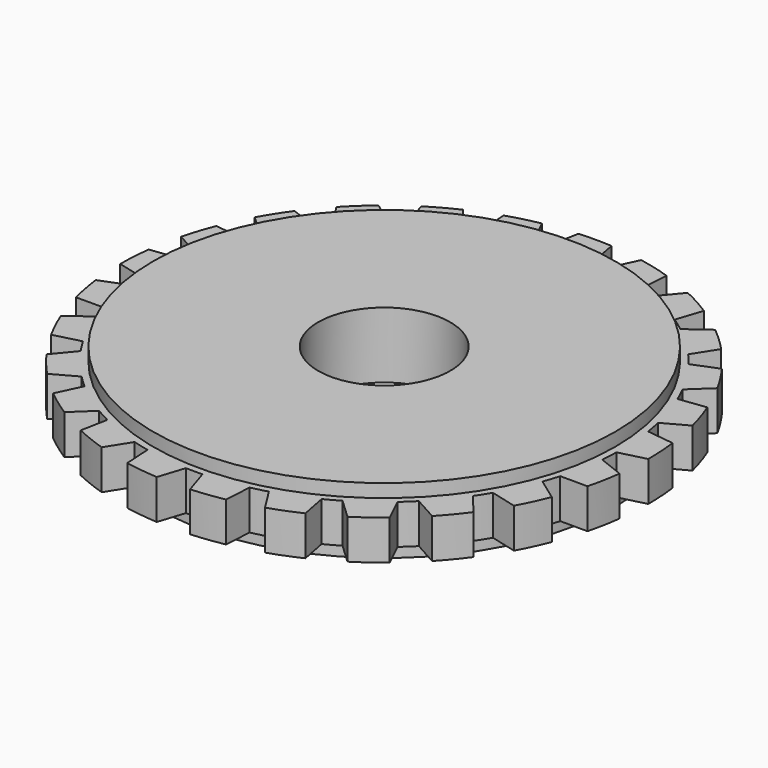
from build123d import *

# Parameters (mm, degrees)
F0_W     = 3
F0_H     = 1
F3_DEPTH = 25
F5_R     = 3.5
F6_DEPTH = 0.2
F4_R     = 3.5
F7_DEPTH = 0.2


with BuildPart() as f1:
    # F0 (on Front) → F1 (revolve)
    with BuildSketch(Plane.XZ):
        with Locations((-2.5, 0.5)):
            Rectangle(F0_W, F0_H)
    revolve(axis=Axis((0, 0, 0.5), (0, 0, -1)))

    # F2 (on face) → F3 (cut)
    with BuildSketch(Plane.XY.offset(1)):
        with BuildLine():
            Line((-2.013438288, 2.9849859083), (-2.1423239832, 3.3779354569))
            ThreePointArc((-2.1423239832, 3.3779354569), (-2.3511410092, 3.2360679775), (-2.5505930097, 3.0813106463))
            Line((-2.5505930097, 3.0813106463), (-2.21670813, 2.8373014783))
            ThreePointArc((-2.21670813, 2.8373014783), (-2.1163618197, 2.9129173109), (-2.013438288, 2.9849859083))
        make_face()
        with BuildLine():
            Line((-1.207846613, 3.3919288277), (-1.2349605481, 3.8045857126))
            ThreePointArc((-1.2349605481, 3.8045857126), (-1.4724982107, 3.7191059436), (-1.7041706431, 3.618812294))
            Line((-1.7041706431, 3.618812294), (-1.4414579833, 3.2994353297))
            ThreePointArc((-1.4414579833, 3.2994353297), (-1.3254593441, 3.3477204393), (-1.207846613, 3.3919288277))
        make_face()
        with BuildLine():
            Line((-0.3263614931, 3.5857443841), (-0.25, 3.9921798557))
            ThreePointArc((-0.25, 3.9921798557), (-0.5013329343, 3.9684588053), (-0.7506689676, 3.9289306562))
            Line((-0.7506689676, 3.9289306562), (-0.5756357303, 3.5542535248))
            ThreePointArc((-0.5756357303, 3.5542535248), (-0.4512733831, 3.5721739804), (-0.3263614931, 3.5857443841))
        make_face()
        with BuildLine():
            ThreePointArc((0.7506689676, 3.9289306562), (0.5013329343, 3.9684588053), (0.25, 3.9921798557))
            Line((0.25, 3.9921798557), (0.3263558327, 3.5857448993))
            ThreePointArc((0.3263558327, 3.5857448993), (0.4512677441, 3.5721746927), (0.5756301196, 3.5542544335))
            Line((0.5756301196, 3.5542544335), (0.7506689676, 3.9289306562))
        make_face()
        with BuildLine():
            Line((1.4414527749, 3.2994376051), (1.7041706431, 3.618812294))
            ThreePointArc((1.7041706431, 3.618812294), (1.4724982107, 3.7191059436), (1.2349605481, 3.8045857126))
            Line((1.2349605481, 3.8045857126), (1.2078412585, 3.3919307343))
            ThreePointArc((1.2078412585, 3.3919307343), (1.3254540594, 3.3477225316), (1.4414527749, 3.2994376051))
        make_face()
        with BuildLine():
            Line((2.216703651, 2.8373049776), (2.5505930097, 3.0813106463))
            ThreePointArc((2.5505930097, 3.0813106463), (2.3511410092, 3.2360679775), (2.1423239832, 3.3779354569))
            Line((2.1423239832, 3.3779354569), (2.0134335759, 2.9849890867))
            ThreePointArc((2.0134335759, 2.9849890867), (2.1163572214, 2.9129206518), (2.216703651, 2.8373049776))
        make_face()
        with BuildLine():
            Line((2.8526708843, 2.1968940434), (3.236752237, 2.3501989184))
            ThreePointArc((3.236752237, 2.3501989184), (3.0820529711, 2.549695959), (2.9150773234, 2.7390370933))
            Line((2.9150773234, 2.7390370933), (2.6925144568, 2.3904895967))
            ThreePointArc((2.6925144568, 2.3904895967), (2.7742818758, 2.2950892544), (2.8526708843, 2.1968940434))
        make_face()
        with BuildLine():
            Line((3.3093943146, 1.4184441769), (3.7195344174, 1.4714155491))
            ThreePointArc((3.7195344174, 1.4714155491), (3.6193082099, 1.7031171663), (3.5046656345, 1.9280349557))
            Line((3.5046656345, 1.9280349557), (3.2024147521, 1.6457868538))
            ThreePointArc((3.2024147521, 1.6457868538), (3.2578881969, 1.5330489584), (3.3093943146, 1.4184441769))
        make_face()
        with BuildLine():
            Line((3.5581763289, 0.550868246), (3.9686045708, 0.5001777293))
            ThreePointArc((3.9686045708, 0.5001777293), (3.9291490029, 0.7495252583), (3.8740429145, 0.9958872909))
            Line((3.8740429145, 0.9958872909), (3.5110955508, 0.79767327))
            ThreePointArc((3.5110955508, 0.79767327), (3.5367894208, 0.6746815583), (3.5581763289, 0.550868246))
        make_face()
        with BuildLine():
            Line((3.5833850385, -0.3513207626), (3.9683127035, -0.5024880967))
            ThreePointArc((3.9683127035, -0.5024880967), (3.9920703159, -0.2517431092), (4, 0))
            ThreePointArc((4, 0), (3.9999999576, 0.0005821825), (3.9999998305, 0.0011643651))
            Line((3.9999998305, 0.0011643651), (3.5991613031, -0.1005610589))
            ThreePointArc((3.5991613031, -0.1005610589), (3.5934611581, -0.2260785655), (3.5833850385, -0.3513207626))
        make_face()
        with BuildLine():
            Line((3.3834364873, -1.2314349957), (3.7186771546, -1.4735807476))
            ThreePointArc((3.7186771546, -1.4735807476), (3.8042260652, -1.2360679775), (3.8746220462, -0.9936317221))
            Line((3.8746220462, -0.9936317221), (3.461078514, -0.9924767667))
            ThreePointArc((3.461078514, -0.9924767667), (3.4243425149, -1.1126333416), (3.3834364873, -1.2314349957))
        make_face()
        with BuildLine():
            Line((2.9708941782, -2.0341736391), (3.2353834438, -2.3520829007))
            ThreePointArc((3.2353834438, -2.3520829007), (3.377311702, -2.1433071799), (3.5057875088, -1.9259942739))
            Line((3.5057875088, -1.9259942739), (3.1055234329, -1.8220315091))
            ThreePointArc((3.1055234329, -1.8220315091), (3.0400598377, -1.9292772728), (2.9708941782, -2.0341736391))
        make_face()
        with BuildLine():
            Line((2.3716796617, -2.7090976716), (2.5487986923, -3.0827950348))
            ThreePointArc((2.5487986923, -3.0827950348), (2.7381884237, -2.9158745097), (2.9166714489, -2.7373395221))
            Line((2.9166714489, -2.7373395221), (2.5548368931, -2.5371013109))
            ThreePointArc((2.5548368931, -2.5371013109), (2.4647590203, -2.6246976176), (2.3716796617, -2.7090976716))
        make_face()
        with BuildLine():
            Line((1.6234437897, -3.2137991341), (1.7020635451, -3.6198038191))
            ThreePointArc((1.7020635451, -3.6198038191), (1.9270146964, -3.5052267202), (2.1442901951, -3.3766876609))
            Line((2.1442901951, -3.3766876609), (1.8436205554, -3.0927557065))
            ThreePointArc((1.8436205554, -3.0927557065), (1.734588329, -3.1551985581), (1.6234437897, -3.2137991341))
        make_face()
        with BuildLine():
            Line((0.7732009737, -3.5165657774), (0.7483814856, -3.9293670167))
            ThreePointArc((0.7483814856, -3.9293670167), (0.9947595487, -3.8743326445), (1.2371753021, -3.8038660954))
            Line((1.2371753021, -3.8038660954), (1.0165627578, -3.4540808867))
            ThreePointArc((1.0165627578, -3.4540808867), (0.8954270735, -3.4874467692), (0.7732009737, -3.5165657774))
        make_face()
        with BuildLine():
            Line((-0.1256249031, -3.5983736599), (-0.252324135, -3.9920336335))
            ThreePointArc((-0.252324135, -3.9920336335), (0, -4), (0.252324135, -3.9920336335))
            Line((0.252324135, -3.9920336335), (0.1256305835, -3.5983734616))
            ThreePointArc((0.1256305835, -3.5983734616), (2.8419e-06, -3.6005658739), (-0.1256249031, -3.5983736599))
        make_face()
        with BuildLine():
            Line((-1.0165573052, -3.4540824914), (-1.2371753021, -3.8038660954))
            ThreePointArc((-1.2371753021, -3.8038660954), (-0.9947595487, -3.8743326445), (-0.7483814856, -3.9293670167))
            Line((-0.7483814856, -3.9293670167), (-0.7731954225, -3.5165669979))
            ThreePointArc((-0.7731954225, -3.5165669979), (-0.8954215683, -3.4874481827), (-1.0165573052, -3.4540824914))
        make_face()
        with BuildLine():
            Line((-1.8436156732, -3.0927586168), (-2.1442901951, -3.3766876609))
            ThreePointArc((-2.1442901951, -3.3766876609), (-1.9270146964, -3.5052267202), (-1.7020635451, -3.6198038191))
            Line((-1.7020635451, -3.6198038191), (-1.6234387164, -3.2138016968))
            ThreePointArc((-1.6234387164, -3.2138016968), (-1.7345833482, -3.1552012963), (-1.8436156732, -3.0927586168))
        make_face()
        with BuildLine():
            Line((-3.1055205566, -1.8220364115), (-3.5057875088, -1.9259942739))
            ThreePointArc((-3.5057875088, -1.9259942739), (-3.377311702, -2.1433071799), (-3.2353834438, -2.3520829007))
            Line((-3.2353834438, -2.3520829007), (-2.9708909671, -2.0341783289))
            ThreePointArc((-2.9708909671, -2.0341783289), (-3.0400567922, -1.9292820718), (-3.1055205566, -1.8220364115))
        make_face()
        with BuildLine():
            Line((-2.5548328881, -2.5371053439), (-2.9166714489, -2.7373395221))
            ThreePointArc((-2.9166714489, -2.7373395221), (-2.7381884237, -2.9158745097), (-2.5487986923, -3.0827950348))
            Line((-2.5487986923, -3.0827950348), (-2.3716753852, -2.7091014155))
            ThreePointArc((-2.3716753852, -2.7091014155), (-2.464754877, -2.6247015085), (-2.5548328881, -2.5371053439))
        make_face()
        with BuildLine():
            Line((-3.4610769473, -0.9924822303), (-3.8746220462, -0.9936317221))
            ThreePointArc((-3.8746220462, -0.9936317221), (-3.8042260652, -1.2360679775), (-3.7186771546, -1.4735807476))
            Line((-3.7186771546, -1.4735807476), (-3.3834345434, -1.2314403368))
            ThreePointArc((-3.3834345434, -1.2314403368), (-3.4243407585, -1.1126387472), (-3.4610769473, -0.9924822303))
        make_face()
        with BuildLine():
            Line((-3.5991611444, -0.1005667405), (-3.9999998305, 0.0011643651))
            ThreePointArc((-3.9999998305, 0.0011643651), (-3.9921069137, -0.2511620781), (-3.9683127035, -0.5024880967))
            Line((-3.9683127035, -0.5024880967), (-3.5833844839, -0.3513264193))
            ThreePointArc((-3.5833844839, -0.3513264193), (-3.5934608012, -0.2260842381), (-3.5991611444, -0.1005667405))
        make_face()
        with BuildLine():
            Line((-3.51109681, 0.7976677275), (-3.8740429145, 0.9958872909))
            ThreePointArc((-3.8740429145, 0.9958872909), (-3.9291490029, 0.7495252583), (-3.9686045708, 0.5001777293))
            Line((-3.9686045708, 0.5001777293), (-3.5581771985, 0.5508626292))
            ThreePointArc((-3.5581771985, 0.5508626292), (-3.5367904859, 0.6746759751), (-3.51109681, 0.7976677275))
        make_face()
        with BuildLine():
            Line((-3.2024173501, 1.6457817985), (-3.5046656345, 1.9280349557))
            ThreePointArc((-3.5046656345, 1.9280349557), (-3.6193082099, 1.7031171663), (-3.7195344174, 1.4714155491))
            Line((-3.7195344174, 1.4714155491), (-3.3093965537, 1.4184389527))
            ThreePointArc((-3.3093965537, 1.4184389527), (-3.2578906169, 1.5330438156), (-3.2024173501, 1.6457817985))
        make_face()
        with BuildLine():
            Line((-2.6925182304, 2.3904853464), (-2.9150773234, 2.7390370933))
            ThreePointArc((-2.9150773234, 2.7390370933), (-3.0820529711, 2.549695959), (-3.236752237, 2.3501989184))
            Line((-3.236752237, 2.3501989184), (-2.8526743523, 2.1968895402))
            ThreePointArc((-2.8526743523, 2.1968895402), (-2.7742854988, 2.295084875), (-2.6925182304, 2.3904853464))
        make_face()
    extrude(amount=-F3_DEPTH, mode=Mode.SUBTRACT)

    # F5 (on face) → F6 (cut)
    with BuildSketch(Plane(origin=(0, 0, 0), x_dir=(1, 0, 0), z_dir=(0, 0, -1))):
        with BuildLine():
            ThreePointArc((-3.5833844839, 0.3513264193), (-3.5934608012, 0.2260842381), (-3.5991611444, 0.1005667405))
            Line((-3.5991611444, 0.1005667405), (-3.9999998305, -0.0011643651))
            ThreePointArc((-3.9999998305, -0.0011643651), (-3.9921069137, -0.2511620781), (-3.9686045708, -0.5001777293))
            Line((-3.9686045708, -0.5001777293), (-3.5581771985, -0.5508626292))
            ThreePointArc((-3.5581771985, -0.5508626292), (-3.5367904859, -0.6746759751), (-3.51109681, -0.7976677275))
            Line((-3.51109681, -0.7976677275), (-3.8740429145, -0.9958872909))
            ThreePointArc((-3.8740429145, -0.9958872909), (-3.8042260652, -1.2360679775), (-3.7195344174, -1.4714155491))
            Line((-3.7195344174, -1.4714155491), (-3.3093965537, -1.4184389527))
            ThreePointArc((-3.3093965537, -1.4184389527), (-3.2578906169, -1.5330438156), (-3.2024173501, -1.6457817985))
            Line((-3.2024173501, -1.6457817985), (-3.5046656345, -1.9280349557))
            ThreePointArc((-3.5046656345, -1.9280349557), (-3.377311702, -2.1433071799), (-3.236752237, -2.3501989184))
            Line((-3.236752237, -2.3501989184), (-2.8526743523, -2.1968895402))
            ThreePointArc((-2.8526743523, -2.1968895402), (-2.7742854988, -2.295084875), (-2.6925182304, -2.3904853464))
            Line((-2.6925182304, -2.3904853464), (-2.9150773234, -2.7390370933))
            ThreePointArc((-2.9150773234, -2.7390370933), (-2.7381884237, -2.9158745097), (-2.5505930097, -3.0813106463))
            Line((-2.5505930097, -3.0813106463), (-2.21670813, -2.8373014783))
            ThreePointArc((-2.21670813, -2.8373014783), (-2.1163618197, -2.9129173109), (-2.013438288, -2.9849859083))
            Line((-2.013438288, -2.9849859083), (-2.1423239832, -3.3779354569))
            ThreePointArc((-2.1423239832, -3.3779354569), (-1.9270146964, -3.5052267202), (-1.7041706431, -3.618812294))
            Line((-1.7041706431, -3.618812294), (-1.4414579833, -3.2994353297))
            ThreePointArc((-1.4414579833, -3.2994353297), (-1.3254593441, -3.3477204393), (-1.207846613, -3.3919288277))
            Line((-1.207846613, -3.3919288277), (-1.2349605481, -3.8045857126))
            ThreePointArc((-1.2349605481, -3.8045857126), (-0.9947595487, -3.8743326445), (-0.7506689676, -3.9289306562))
            Line((-0.7506689676, -3.9289306562), (-0.5756357303, -3.5542535248))
            ThreePointArc((-0.5756357303, -3.5542535248), (-0.4512733831, -3.5721739804), (-0.3263614931, -3.5857443841))
            Line((-0.3263614931, -3.5857443841), (-0.25, -3.9921798557))
            ThreePointArc((-0.25, -3.9921798557), (0, -4), (0.25, -3.9921798557))
            Line((0.25, -3.9921798557), (0.3263558327, -3.5857448993))
            ThreePointArc((0.3263558327, -3.5857448993), (0.4512677441, -3.5721746927), (0.5756301196, -3.5542544335))
            Line((0.5756301196, -3.5542544335), (0.7506689676, -3.9289306562))
            ThreePointArc((0.7506689676, -3.9289306562), (0.9947595487, -3.8743326445), (1.2349605481, -3.8045857126))
            Line((1.2349605481, -3.8045857126), (1.2078412585, -3.3919307343))
            ThreePointArc((1.2078412585, -3.3919307343), (1.3254540594, -3.3477225316), (1.4414527749, -3.2994376051))
            Line((1.4414527749, -3.2994376051), (1.7041706431, -3.618812294))
            ThreePointArc((1.7041706431, -3.618812294), (1.9270146964, -3.5052267202), (2.1423239832, -3.3779354569))
            Line((2.1423239832, -3.3779354569), (2.0134335759, -2.9849890867))
            ThreePointArc((2.0134335759, -2.9849890867), (2.1163572214, -2.9129206518), (2.216703651, -2.8373049776))
            Line((2.216703651, -2.8373049776), (2.5505930097, -3.0813106463))
            ThreePointArc((2.5505930097, -3.0813106463), (2.7381884237, -2.9158745097), (2.9150773234, -2.7390370933))
            Line((2.9150773234, -2.7390370933), (2.6925144568, -2.3904895967))
            ThreePointArc((2.6925144568, -2.3904895967), (2.7742818758, -2.2950892544), (2.8526708843, -2.1968940434))
            Line((2.8526708843, -2.1968940434), (3.236752237, -2.3501989184))
            ThreePointArc((3.236752237, -2.3501989184), (3.377311702, -2.1433071799), (3.5046656345, -1.9280349557))
            Line((3.5046656345, -1.9280349557), (3.2024147521, -1.6457868538))
            ThreePointArc((3.2024147521, -1.6457868538), (3.2578881969, -1.5330489584), (3.3093943146, -1.4184441769))
            Line((3.3093943146, -1.4184441769), (3.7195344174, -1.4714155491))
            ThreePointArc((3.7195344174, -1.4714155491), (3.8042260652, -1.2360679775), (3.8740429145, -0.9958872909))
            Line((3.8740429145, -0.9958872909), (3.5110955508, -0.79767327))
            ThreePointArc((3.5110955508, -0.79767327), (3.5367894208, -0.6746815583), (3.5581763289, -0.550868246))
            Line((3.5581763289, -0.550868246), (3.9686045708, -0.5001777293))
            ThreePointArc((3.9686045708, -0.5001777293), (3.9921069137, -0.2511620781), (3.9999998305, -0.0011643651))
            Line((3.9999998305, -0.0011643651), (3.5991613031, 0.1005610589))
            ThreePointArc((3.5991613031, 0.1005610589), (3.5934611581, 0.2260785655), (3.5833850385, 0.3513207626))
            Line((3.5833850385, 0.3513207626), (3.9683127035, 0.5024880967))
            ThreePointArc((3.9683127035, 0.5024880967), (3.9291490029, 0.7495252583), (3.8746220462, 0.9936317221))
            Line((3.8746220462, 0.9936317221), (3.461078514, 0.9924767667))
            ThreePointArc((3.461078514, 0.9924767667), (3.4243425149, 1.1126333416), (3.3834364873, 1.2314349957))
            Line((3.3834364873, 1.2314349957), (3.7186771546, 1.4735807476))
            ThreePointArc((3.7186771546, 1.4735807476), (3.6193082099, 1.7031171663), (3.5057875088, 1.9259942739))
            Line((3.5057875088, 1.9259942739), (3.1055234329, 1.8220315091))
            ThreePointArc((3.1055234329, 1.8220315091), (3.0400598377, 1.9292772728), (2.9708941782, 2.0341736391))
            Line((2.9708941782, 2.0341736391), (3.2353834438, 2.3520829007))
            ThreePointArc((3.2353834438, 2.3520829007), (3.0820529711, 2.549695959), (2.9166714489, 2.7373395221))
            Line((2.9166714489, 2.7373395221), (2.5548368931, 2.5371013109))
            ThreePointArc((2.5548368931, 2.5371013109), (2.4647590203, 2.6246976176), (2.3716796617, 2.7090976716))
            Line((2.3716796617, 2.7090976716), (2.5487986923, 3.0827950348))
            ThreePointArc((2.5487986923, 3.0827950348), (2.3511410092, 3.2360679775), (2.1442901951, 3.3766876609))
            Line((2.1442901951, 3.3766876609), (1.8436205554, 3.0927557065))
            ThreePointArc((1.8436205554, 3.0927557065), (1.734588329, 3.1551985581), (1.6234437897, 3.2137991341))
            Line((1.6234437897, 3.2137991341), (1.7020635451, 3.6198038191))
            ThreePointArc((1.7020635451, 3.6198038191), (1.4724982107, 3.7191059436), (1.2371753021, 3.8038660954))
            Line((1.2371753021, 3.8038660954), (1.0165627578, 3.4540808867))
            ThreePointArc((1.0165627578, 3.4540808867), (0.8954270735, 3.4874467692), (0.7732009737, 3.5165657774))
            Line((0.7732009737, 3.5165657774), (0.7483814856, 3.9293670167))
            ThreePointArc((0.7483814856, 3.9293670167), (0.5013329343, 3.9684588053), (0.252324135, 3.9920336335))
            Line((0.252324135, 3.9920336335), (0.1256305835, 3.5983734616))
            ThreePointArc((0.1256305835, 3.5983734616), (2.8419e-06, 3.6005658739), (-0.1256249031, 3.5983736599))
            Line((-0.1256249031, 3.5983736599), (-0.252324135, 3.9920336335))
            ThreePointArc((-0.252324135, 3.9920336335), (-0.5013329343, 3.9684588053), (-0.7483814856, 3.9293670167))
            Line((-0.7483814856, 3.9293670167), (-0.7731954225, 3.5165669979))
            ThreePointArc((-0.7731954225, 3.5165669979), (-0.8954215683, 3.4874481827), (-1.0165573052, 3.4540824914))
            Line((-1.0165573052, 3.4540824914), (-1.2371753021, 3.8038660954))
            ThreePointArc((-1.2371753021, 3.8038660954), (-1.4724982107, 3.7191059436), (-1.7020635451, 3.6198038191))
            Line((-1.7020635451, 3.6198038191), (-1.6234387164, 3.2138016968))
            ThreePointArc((-1.6234387164, 3.2138016968), (-1.7345833482, 3.1552012963), (-1.8436156732, 3.0927586168))
            Line((-1.8436156732, 3.0927586168), (-2.1442901951, 3.3766876609))
            ThreePointArc((-2.1442901951, 3.3766876609), (-2.3511410092, 3.2360679775), (-2.5487986923, 3.0827950348))
            Line((-2.5487986923, 3.0827950348), (-2.3716753852, 2.7091014155))
            ThreePointArc((-2.3716753852, 2.7091014155), (-2.464754877, 2.6247015085), (-2.5548328881, 2.5371053439))
            Line((-2.5548328881, 2.5371053439), (-2.9166714489, 2.7373395221))
            ThreePointArc((-2.9166714489, 2.7373395221), (-3.0820529711, 2.549695959), (-3.2353834438, 2.3520829007))
            Line((-3.2353834438, 2.3520829007), (-2.9708909671, 2.0341783289))
            ThreePointArc((-2.9708909671, 2.0341783289), (-3.0400567922, 1.9292820718), (-3.1055205566, 1.8220364115))
            Line((-3.1055205566, 1.8220364115), (-3.5057875088, 1.9259942739))
            ThreePointArc((-3.5057875088, 1.9259942739), (-3.6193082099, 1.7031171663), (-3.7186771546, 1.4735807476))
            Line((-3.7186771546, 1.4735807476), (-3.3834345434, 1.2314403368))
            ThreePointArc((-3.3834345434, 1.2314403368), (-3.4243407585, 1.1126387472), (-3.4610769473, 0.9924822303))
            Line((-3.4610769473, 0.9924822303), (-3.8746220462, 0.9936317221))
            ThreePointArc((-3.8746220462, 0.9936317221), (-3.9291490029, 0.7495252583), (-3.9683127035, 0.5024880967))
            Line((-3.9683127035, 0.5024880967), (-3.5833844839, 0.3513264193))
        make_face()
        Circle(F5_R, mode=Mode.SUBTRACT)
    extrude(amount=-F6_DEPTH, mode=Mode.SUBTRACT)

    # F4 (on face) → F7 (cut)
    with BuildSketch(Plane.XY.offset(1)):
        with BuildLine():
            Line((-3.5581771985, 0.5508626292), (-3.9686045708, 0.5001777293))
            ThreePointArc((-3.9686045708, 0.5001777293), (-3.9921069137, 0.2511620781), (-3.9999998305, 0.0011643651))
            Line((-3.9999998305, 0.0011643651), (-3.5991611444, -0.1005667405))
            ThreePointArc((-3.5991611444, -0.1005667405), (-3.5934608012, -0.2260842381), (-3.5833844839, -0.3513264193))
            Line((-3.5833844839, -0.3513264193), (-3.9683127035, -0.5024880967))
            ThreePointArc((-3.9683127035, -0.5024880967), (-3.9291490029, -0.7495252583), (-3.8746220462, -0.9936317221))
            Line((-3.8746220462, -0.9936317221), (-3.4610769473, -0.9924822303))
            ThreePointArc((-3.4610769473, -0.9924822303), (-3.4243407585, -1.1126387472), (-3.3834345434, -1.2314403368))
            Line((-3.3834345434, -1.2314403368), (-3.7186771546, -1.4735807476))
            ThreePointArc((-3.7186771546, -1.4735807476), (-3.6193082099, -1.7031171663), (-3.5057875088, -1.9259942739))
            Line((-3.5057875088, -1.9259942739), (-3.1055205566, -1.8220364115))
            ThreePointArc((-3.1055205566, -1.8220364115), (-3.0400567922, -1.9292820718), (-2.9708909671, -2.0341783289))
            Line((-2.9708909671, -2.0341783289), (-3.2353834438, -2.3520829007))
            ThreePointArc((-3.2353834438, -2.3520829007), (-3.0820529711, -2.549695959), (-2.9166714489, -2.7373395221))
            Line((-2.9166714489, -2.7373395221), (-2.5548328881, -2.5371053439))
            ThreePointArc((-2.5548328881, -2.5371053439), (-2.464754877, -2.6247015085), (-2.3716753852, -2.7091014155))
            Line((-2.3716753852, -2.7091014155), (-2.5487986923, -3.0827950348))
            ThreePointArc((-2.5487986923, -3.0827950348), (-2.3511410092, -3.2360679775), (-2.1442901951, -3.3766876609))
            Line((-2.1442901951, -3.3766876609), (-1.8436156732, -3.0927586168))
            ThreePointArc((-1.8436156732, -3.0927586168), (-1.7345833482, -3.1552012963), (-1.6234387164, -3.2138016968))
            Line((-1.6234387164, -3.2138016968), (-1.7020635451, -3.6198038191))
            ThreePointArc((-1.7020635451, -3.6198038191), (-1.4724982107, -3.7191059436), (-1.2371753021, -3.8038660954))
            Line((-1.2371753021, -3.8038660954), (-1.0165573052, -3.4540824914))
            ThreePointArc((-1.0165573052, -3.4540824914), (-0.8954215683, -3.4874481827), (-0.7731954225, -3.5165669979))
            Line((-0.7731954225, -3.5165669979), (-0.7483814856, -3.9293670167))
            ThreePointArc((-0.7483814856, -3.9293670167), (-0.5013329343, -3.9684588053), (-0.252324135, -3.9920336335))
            Line((-0.252324135, -3.9920336335), (-0.1256249031, -3.5983736599))
            ThreePointArc((-0.1256249031, -3.5983736599), (2.8419e-06, -3.6005658739), (0.1256305835, -3.5983734616))
            Line((0.1256305835, -3.5983734616), (0.252324135, -3.9920336335))
            ThreePointArc((0.252324135, -3.9920336335), (0.5013329343, -3.9684588053), (0.7483814856, -3.9293670167))
            Line((0.7483814856, -3.9293670167), (0.7732009737, -3.5165657774))
            ThreePointArc((0.7732009737, -3.5165657774), (0.8954270735, -3.4874467692), (1.0165627578, -3.4540808867))
            Line((1.0165627578, -3.4540808867), (1.2371753021, -3.8038660954))
            ThreePointArc((1.2371753021, -3.8038660954), (1.4724982107, -3.7191059436), (1.7020635451, -3.6198038191))
            Line((1.7020635451, -3.6198038191), (1.6234437897, -3.2137991341))
            ThreePointArc((1.6234437897, -3.2137991341), (1.734588329, -3.1551985581), (1.8436205554, -3.0927557065))
            Line((1.8436205554, -3.0927557065), (2.1442901951, -3.3766876609))
            ThreePointArc((2.1442901951, -3.3766876609), (2.3511410092, -3.2360679775), (2.5487986923, -3.0827950348))
            Line((2.5487986923, -3.0827950348), (2.3716796617, -2.7090976716))
            ThreePointArc((2.3716796617, -2.7090976716), (2.4647590203, -2.6246976176), (2.5548368931, -2.5371013109))
            Line((2.5548368931, -2.5371013109), (2.9166714489, -2.7373395221))
            ThreePointArc((2.9166714489, -2.7373395221), (3.0820529711, -2.549695959), (3.2353834438, -2.3520829007))
            Line((3.2353834438, -2.3520829007), (2.9708941782, -2.0341736391))
            ThreePointArc((2.9708941782, -2.0341736391), (3.0400598377, -1.9292772728), (3.1055234329, -1.8220315091))
            Line((3.1055234329, -1.8220315091), (3.5057875088, -1.9259942739))
            ThreePointArc((3.5057875088, -1.9259942739), (3.6193082099, -1.7031171663), (3.7186771546, -1.4735807476))
            Line((3.7186771546, -1.4735807476), (3.3834364873, -1.2314349957))
            ThreePointArc((3.3834364873, -1.2314349957), (3.4243425149, -1.1126333416), (3.461078514, -0.9924767667))
            Line((3.461078514, -0.9924767667), (3.8746220462, -0.9936317221))
            ThreePointArc((3.8746220462, -0.9936317221), (3.9291490029, -0.7495252583), (3.9683127035, -0.5024880967))
            Line((3.9683127035, -0.5024880967), (3.5833850385, -0.3513207626))
            ThreePointArc((3.5833850385, -0.3513207626), (3.5934611581, -0.2260785655), (3.5991613031, -0.1005610589))
            Line((3.5991613031, -0.1005610589), (3.9999998305, 0.0011643651))
            ThreePointArc((3.9999998305, 0.0011643651), (3.9921069137, 0.2511620781), (3.9686045708, 0.5001777293))
            Line((3.9686045708, 0.5001777293), (3.5581763289, 0.550868246))
            ThreePointArc((3.5581763289, 0.550868246), (3.5367894208, 0.6746815583), (3.5110955508, 0.79767327))
            Line((3.5110955508, 0.79767327), (3.8740429145, 0.9958872909))
            ThreePointArc((3.8740429145, 0.9958872909), (3.8042260652, 1.2360679775), (3.7195344174, 1.4714155491))
            Line((3.7195344174, 1.4714155491), (3.3093943146, 1.4184441769))
            ThreePointArc((3.3093943146, 1.4184441769), (3.2578881969, 1.5330489584), (3.2024147521, 1.6457868538))
            Line((3.2024147521, 1.6457868538), (3.5046656345, 1.9280349557))
            ThreePointArc((3.5046656345, 1.9280349557), (3.377311702, 2.1433071799), (3.236752237, 2.3501989184))
            Line((3.236752237, 2.3501989184), (2.8526708843, 2.1968940434))
            ThreePointArc((2.8526708843, 2.1968940434), (2.7742818758, 2.2950892544), (2.6925144568, 2.3904895967))
            Line((2.6925144568, 2.3904895967), (2.9150773234, 2.7390370933))
            ThreePointArc((2.9150773234, 2.7390370933), (2.7381884237, 2.9158745097), (2.5505930097, 3.0813106463))
            Line((2.5505930097, 3.0813106463), (2.216703651, 2.8373049776))
            ThreePointArc((2.216703651, 2.8373049776), (2.1163572214, 2.9129206518), (2.0134335759, 2.9849890867))
            Line((2.0134335759, 2.9849890867), (2.1423239832, 3.3779354569))
            ThreePointArc((2.1423239832, 3.3779354569), (1.9270146964, 3.5052267202), (1.7041706431, 3.618812294))
            Line((1.7041706431, 3.618812294), (1.4414527749, 3.2994376051))
            ThreePointArc((1.4414527749, 3.2994376051), (1.3254540594, 3.3477225316), (1.2078412585, 3.3919307343))
            Line((1.2078412585, 3.3919307343), (1.2349605481, 3.8045857126))
            ThreePointArc((1.2349605481, 3.8045857126), (0.9947595487, 3.8743326445), (0.7506689676, 3.9289306562))
            Line((0.7506689676, 3.9289306562), (0.5756301196, 3.5542544335))
            ThreePointArc((0.5756301196, 3.5542544335), (0.4512677441, 3.5721746927), (0.3263558327, 3.5857448993))
            Line((0.3263558327, 3.5857448993), (0.25, 3.9921798557))
            ThreePointArc((0.25, 3.9921798557), (0, 4), (-0.25, 3.9921798557))
            Line((-0.25, 3.9921798557), (-0.3263614931, 3.5857443841))
            ThreePointArc((-0.3263614931, 3.5857443841), (-0.4512733831, 3.5721739804), (-0.5756357303, 3.5542535248))
            Line((-0.5756357303, 3.5542535248), (-0.7506689676, 3.9289306562))
            ThreePointArc((-0.7506689676, 3.9289306562), (-0.9947595487, 3.8743326445), (-1.2349605481, 3.8045857126))
            Line((-1.2349605481, 3.8045857126), (-1.207846613, 3.3919288277))
            ThreePointArc((-1.207846613, 3.3919288277), (-1.3254593441, 3.3477204393), (-1.4414579833, 3.2994353297))
            Line((-1.4414579833, 3.2994353297), (-1.7041706431, 3.618812294))
            ThreePointArc((-1.7041706431, 3.618812294), (-1.9270146964, 3.5052267202), (-2.1423239832, 3.3779354569))
            Line((-2.1423239832, 3.3779354569), (-2.013438288, 2.9849859083))
            ThreePointArc((-2.013438288, 2.9849859083), (-2.1163618197, 2.9129173109), (-2.21670813, 2.8373014783))
            Line((-2.21670813, 2.8373014783), (-2.5505930097, 3.0813106463))
            ThreePointArc((-2.5505930097, 3.0813106463), (-2.7381884237, 2.9158745097), (-2.9150773234, 2.7390370933))
            Line((-2.9150773234, 2.7390370933), (-2.6925182304, 2.3904853464))
            ThreePointArc((-2.6925182304, 2.3904853464), (-2.7742854988, 2.295084875), (-2.8526743523, 2.1968895402))
            Line((-2.8526743523, 2.1968895402), (-3.236752237, 2.3501989184))
            ThreePointArc((-3.236752237, 2.3501989184), (-3.377311702, 2.1433071799), (-3.5046656345, 1.9280349557))
            Line((-3.5046656345, 1.9280349557), (-3.2024173501, 1.6457817985))
            ThreePointArc((-3.2024173501, 1.6457817985), (-3.2578906169, 1.5330438156), (-3.3093965537, 1.4184389527))
            Line((-3.3093965537, 1.4184389527), (-3.7195344174, 1.4714155491))
            ThreePointArc((-3.7195344174, 1.4714155491), (-3.8042260652, 1.2360679775), (-3.8740429145, 0.9958872909))
            Line((-3.8740429145, 0.9958872909), (-3.51109681, 0.7976677275))
            ThreePointArc((-3.51109681, 0.7976677275), (-3.5367904859, 0.6746759751), (-3.5581771985, 0.5508626292))
        make_face()
        Circle(F4_R, mode=Mode.SUBTRACT)
    extrude(amount=-F7_DEPTH, mode=Mode.SUBTRACT)


solid = f1.part
